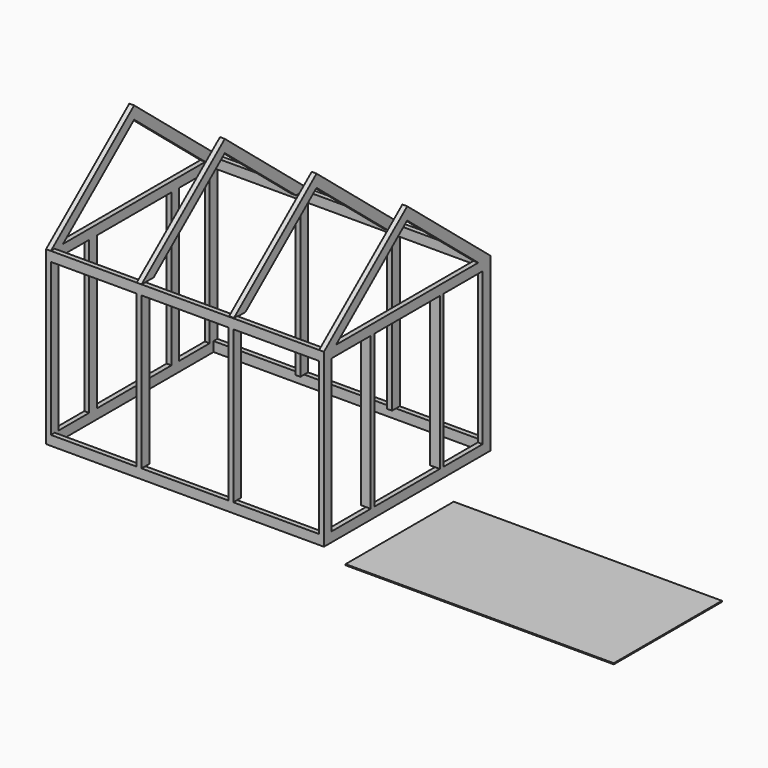
from build123d import *

# Parameters (mm, degrees)
F0_W      = 2590
F0_H      = 1940
F0_W_2    = 2500
F0_H_2    = 1850
F1_DEPTH  = 90
F2_W      = 45
F2_H      = 90
F2_H_2    = 45
F3_DEPTH  = 1420
F4_W      = 2590
F4_H      = 1940
F4_W_2    = 2500
F4_H_2    = 1850
F5_DEPTH  = 90
F7_DEPTH  = 45
F9_DEPTH  = 45
F11_DEPTH = 45
F13_DEPTH = 45
F14_W     = 2500
F14_H     = 1260
F15_DEPTH = 10


with BuildPart() as f1:
    # F0 (on Top) → F1 (new body)
    with BuildSketch(Plane.XY):
        with Locations((567.521992058, 647.1808014655)):
            Rectangle(F0_W, F0_H)
        with Locations((567.521992058, 647.1808014655)):
            Rectangle(F0_W_2, F0_H_2, mode=Mode.SUBTRACT)
    extrude(amount=F1_DEPTH)

    # F2 (on face) → F3 (join)
    with BuildSketch(Plane.XY.offset(90)):
        with Locations((-704.978007942, 1127.1808014655)):
            Rectangle(F2_W, F2_H)
        with Locations((-704.978007942, 1127.1808014655)):
            Rectangle(F2_W, F2_H)
        with Locations((-704.978007942, 167.1808014655)):
            Rectangle(F2_W, F2_H)
        with Locations((-704.978007942, 167.1808014655)):
            Rectangle(F2_W, F2_H)
        Polygon((-727.478007942, -232.8191985345), (-727.478007942, -322.8191985345), (-682.478007942, -322.8191985345), (-682.478007942, -277.8191985345), (-682.478007942, -232.8191985345), align=None)
        with Locations((140.021992058, -255.3191985345)):
            Rectangle(F2_W, F2_H_2)
        with Locations((140.021992058, -300.3191985345)):
            Rectangle(F2_W, F2_H_2)
        with Locations((995.021992058, -255.3191985345)):
            Rectangle(F2_W, F2_H_2)
        with Locations((995.021992058, -300.3191985345)):
            Rectangle(F2_W, F2_H_2)
        Polygon((1817.521992058, -277.8191985345), (1817.521992058, -322.8191985345), (1862.521992058, -322.8191985345), (1862.521992058, -232.8191985345), (1817.521992058, -232.8191985345), align=None)
        with Locations((1795.021992058, 244.6808014655)):
            Rectangle(F2_W, F2_H_2)
        with Locations((1840.021992058, 244.6808014655)):
            Rectangle(F2_W, F2_H_2)
        with Locations((1795.021992058, 1049.6808014655)):
            Rectangle(F2_W, F2_H_2)
        with Locations((1840.021992058, 1049.6808014655)):
            Rectangle(F2_W, F2_H_2)
        Polygon((1817.521992058, 1572.1808014655), (1817.521992058, 1527.1808014655), (1862.521992058, 1527.1808014655), (1862.521992058, 1617.1808014655), (1817.521992058, 1617.1808014655), align=None)
        with Locations((995.021992058, 1594.6808014655)):
            Rectangle(F2_W, F2_H_2)
        with Locations((995.021992058, 1549.6808014655)):
            Rectangle(F2_W, F2_H_2)
        with Locations((140.021992058, 1594.6808014655)):
            Rectangle(F2_W, F2_H_2)
        with Locations((140.021992058, 1549.6808014655)):
            Rectangle(F2_W, F2_H_2)
        Polygon((-727.478007942, 1617.1808014655), (-727.478007942, 1527.1808014655), (-682.478007942, 1527.1808014655), (-682.478007942, 1572.1808014655), (-682.478007942, 1617.1808014655), align=None)
    extrude(amount=F3_DEPTH)

    # F4 (on face) → F5 (join)
    with BuildSketch(Plane.XY.offset(1510)):
        with Locations((567.521992058, 647.1808014655)):
            Rectangle(F4_W, F4_H)
        with Locations((567.521992058, 647.1808014655)):
            Rectangle(F4_W_2, F4_H_2, mode=Mode.SUBTRACT)
    extrude(amount=F5_DEPTH)

    # F6 (on face) → F7 (join)
    with BuildSketch(Plane.YZ.offset(1862.521992058)):
        Polygon((647.1808014655, 2400), (-322.8191985345, 1600), (-181.3686219185, 1600), (647.1808014655, 2283.339730626), (1475.7302248495, 1600), (1617.1808014655, 1600), align=None)
    extrude(amount=-F7_DEPTH)

    # F8 (on face) → F9 (join)
    with BuildSketch(Plane(origin=(972.521992058, 0, 0), x_dir=(0, -1, 0), z_dir=(-1, 0, 0))):
        Polygon((-647.1808242798, 2393.3965783884), (-1617.1808242798, 1593.3965783884), (-1475.7302476638, 1593.3965783884), (-647.1808242798, 2276.7363090144), (181.3685991042, 1593.3965783884), (322.8191757202, 1593.3965783884), align=None)
    extrude(amount=-F9_DEPTH)

    # F10 (on face) → F11 (join)
    with BuildSketch(Plane(origin=(117.521992058, 0, 0), x_dir=(0, -1, 0), z_dir=(-1, 0, 0))):
        Polygon((-647.1808242798, 2399.9999046326), (-1617.1808242798, 1599.9999046326), (-1475.7302476638, 1599.9999046326), (-647.1808242798, 2283.3396352585), (181.3685991042, 1599.9999046326), (322.8191757202, 1599.9999046326), align=None)
    extrude(amount=-F11_DEPTH)

    # F12 (on face) → F13 (join)
    with BuildSketch(Plane(origin=(-727.478007942, 0, 0), x_dir=(0, -1, 0), z_dir=(-1, 0, 0))):
        Polygon((-647.1808242798, 2400), (-1617.1808242798, 1600), (-1475.7302476638, 1600), (-647.1808242798, 2283.339730626), (181.3685991042, 1600), (322.8191757202, 1600), align=None)
    extrude(amount=-F13_DEPTH)


with BuildPart() as f15:
    # F14 (on face) → F15 (new body)
    with BuildSketch(Plane.XY.offset(90)):
        with Locations((3526.0927677155, 42.3482188576)):
            Rectangle(F14_W, F14_H)
    extrude(amount=F15_DEPTH)


solid = Compound([f1.part, f15.part])
